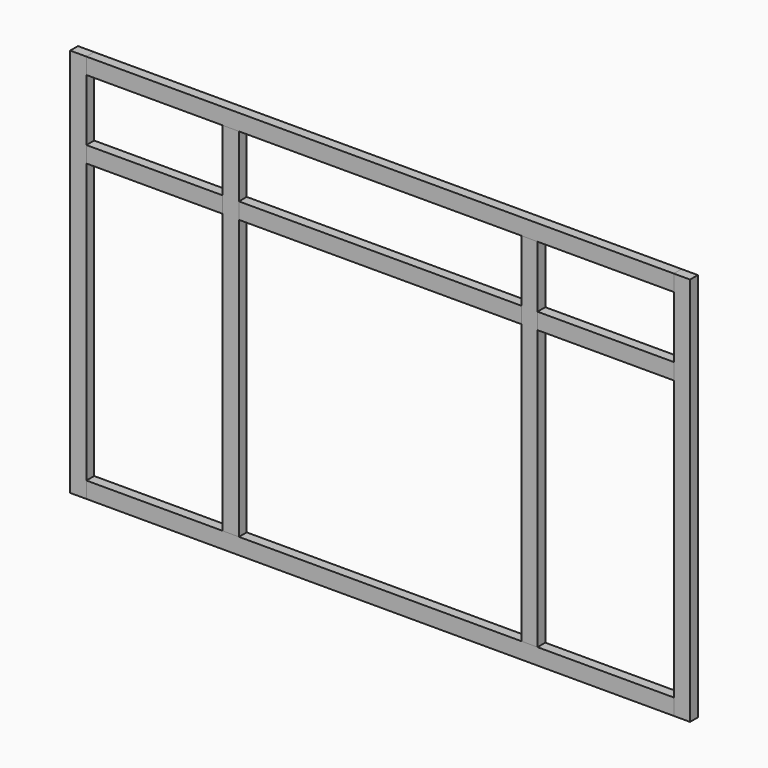
from build123d import *

# Parameters (mm, degrees)
F1_DEPTH = 19.05
F0_W     = 266.7
F0_H     = 31.75
F0_W_2   = 552.45
F2_DEPTH = 19.05


with BuildPart() as f1:
    # F0 (on Front) → F1 (new body)
    with BuildSketch(Plane.XZ):
        Polygon((-981.188244, 506.011576), (-981.188244, 537.761576), (-1012.938244, 537.761576), (-1012.938244, -224.238424), (-981.188244, -224.238424), (-981.188244, -192.488424), (-981.188244, 353.611576), (-981.188244, 385.361576), align=None)
        Polygon((-714.488244, -192.488424), (-682.738244, -192.488424), (-682.738244, 353.611576), (-682.738244, 385.361576), (-682.738244, 506.011576), (-714.488244, 506.011576), (-714.488244, 385.361576), (-714.488244, 353.611576), align=None)
        Polygon((-130.288244, -192.488424), (-98.538244, -192.488424), (-98.538244, 353.611576), (-98.538244, 385.361576), (-98.538244, 506.011576), (-130.288244, 506.011576), (-130.288244, 385.361576), (-130.288244, 353.611576), align=None)
        Polygon((168.161756, -224.238424), (199.911756, -224.238424), (199.911756, 537.761576), (168.161756, 537.761576), (168.161756, 506.011576), (168.161756, 385.361576), (168.161756, 353.611576), (168.161756, -192.488424), align=None)
    extrude(amount=F1_DEPTH)


with BuildPart() as f2:
    # F0 (on Front) → F2 (new body)
    with BuildSketch(Plane.XZ):
        Polygon((168.161756, 506.011576), (168.161756, 537.761576), (-981.188244, 537.761576), (-981.188244, 506.011576), (-714.488244, 506.011576), (-682.738244, 506.011576), (-130.288244, 506.011576), (-98.538244, 506.011576), align=None)
        with Locations((-847.838244, 369.486576)):
            Rectangle(F0_W, F0_H)
        with Locations((-406.513244, 369.486576)):
            Rectangle(F0_W_2, F0_H)
        with Locations((34.811756, 369.486576)):
            Rectangle(F0_W, F0_H)
        Polygon((-130.288244, -224.238424), (168.161756, -224.238424), (168.161756, -192.488424), (-98.538244, -192.488424), (-130.288244, -192.488424), (-682.738244, -192.488424), (-714.488244, -192.488424), (-981.188244, -192.488424), (-981.188244, -224.238424), (-682.738244, -224.238424), align=None)
    extrude(amount=F2_DEPTH)


solid = Compound([f1.part, f2.part])
